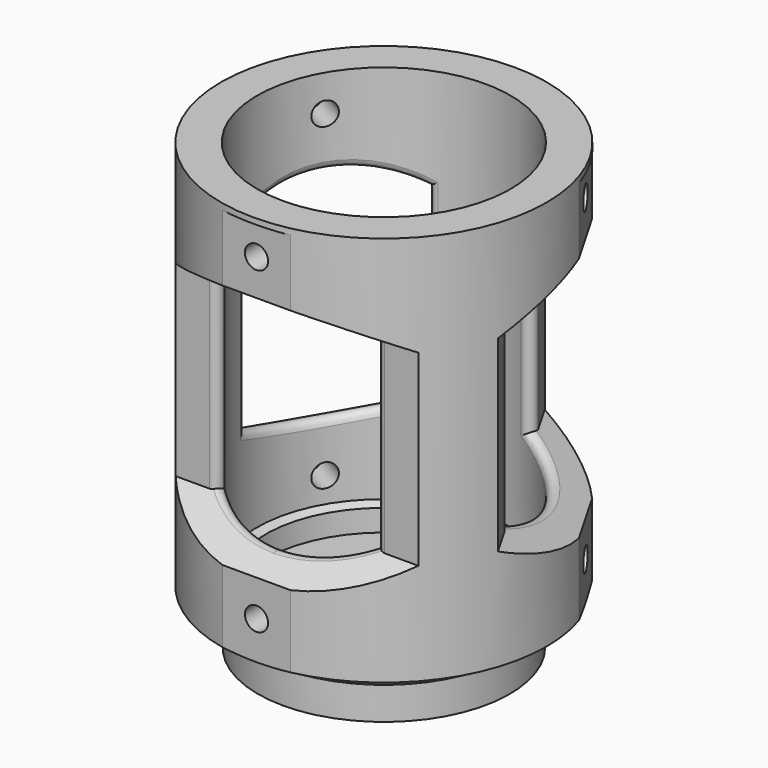
from build123d import *

# Parameters (mm, degrees)
F2_R      = 2
F2_R_2    = 9.75
F3_DEPTH  = 61.4454863729
F5_DEPTH  = 30
F6_COUNT  = 3
F6_ANGLE  = 240
F8_R      = 1.6
F9_DEPTH  = 5
F10_COUNT = 3
F10_ANGLE = 240
F12_R     = 1


with BuildPart() as f1:
    # F0 (on Right) → F1 (revolve)
    with BuildSketch(Plane.YZ):
        Polygon((0, -5.5), (0, 0), (-16.3, 0), (-16.3, 3), (-17.5, 3.4367642811), (-17.5, 55.9444863729), (-22.5, 55.9444863729), (-22.5, 1.9444863729), (-17.4, -1), (-17.4, -5.5), align=None)
    revolve(axis=Axis((0, 0, 23.295013234), (0, 0, 1)))

    # F2 (on face) → F3 (cut, through all)
    with BuildSketch(Plane(origin=(0, 0, -5.5), x_dir=(1, 0, 0), z_dir=(0, 0, -1))):
        with Locations((0, 13)):
            Circle(F2_R)
        with Locations((13, 0)):
            Circle(F2_R)
        with Locations((-13, 0)):
            Circle(F2_R)
        with Locations((0, -13)):
            Circle(F2_R)
        Circle(F2_R_2)
    extrude(amount=-F3_DEPTH, mode=Mode.SUBTRACT)


with BuildPart() as f5:
    # F4 (on Right) → F5 (new body, symmetric)
    with BuildSketch(Plane.YZ):
        Polygon((-22, 45.9444863729), (-22, 55.1072942502), (-41.5050600767, 57.5954504311), (-41.5050600767, -1.058294549), (-22, -3.0555136271), (-22, 11.9444863729), (-15, 15.9859382572), (-15, 41.9030344885), align=None)
    extrude(amount=F5_DEPTH, both=True)


with BuildPart() as f6_1:
    # F6: instance of F5
    add(f5.part.rotate(Axis((0, 0, 3.4367642811), (0, 0, 1)), 1 * F6_ANGLE / (F6_COUNT - 1)))


with BuildPart() as f6_2:
    # F6: instance of F5
    add(f5.part.rotate(Axis((0, 0, 3.4367642811), (0, 0, 1)), 2 * F6_ANGLE / (F6_COUNT - 1)))


with BuildPart() as f1_1:
    add(f1.part)

    # F7: cut F6_1, F5, F6_2
    add(f6_1.part, mode=Mode.SUBTRACT)
    add(f5.part, mode=Mode.SUBTRACT)
    add(f6_2.part, mode=Mode.SUBTRACT)


with BuildPart() as f9:
    # F8 (on face) → F9 (new body, symmetric)
    with BuildSketch(Plane.XZ.offset(22)):
        with Locations((0, 50.9444863729)):
            Circle(F8_R)
    extrude(amount=F9_DEPTH, both=True)


with BuildPart() as f9b:
    # F8 (on face) → F9, piece 2 (new body, symmetric)
    with BuildSketch(Plane.XZ.offset(22)):
        with Locations((0, 6.9444863729)):
            Circle(F8_R)
    extrude(amount=F9_DEPTH, both=True)


with BuildPart() as f10_1:
    # F10: instance of F9
    add(f9.part.rotate(Axis((0, 0, 3.4367642811), (0, 0, 1)), 1 * F10_ANGLE / (F10_COUNT - 1)))


with BuildPart() as f10_2:
    # F10: instance of F9
    add(f9.part.rotate(Axis((0, 0, 3.4367642811), (0, 0, 1)), 2 * F10_ANGLE / (F10_COUNT - 1)))


with BuildPart() as f10_3:
    # F10: instance of F9b
    add(f9b.part.rotate(Axis((0, 0, 3.4367642811), (0, 0, 1)), 1 * F10_ANGLE / (F10_COUNT - 1)))


with BuildPart() as f10_4:
    # F10: instance of F9b
    add(f9b.part.rotate(Axis((0, 0, 3.4367642811), (0, 0, 1)), 2 * F10_ANGLE / (F10_COUNT - 1)))


with BuildPart() as f1_2:
    add(f1_1.part)

    # F11: cut F9, F9b, F10_1, F10_3, F10_2, F10_4
    add(f9.part, mode=Mode.SUBTRACT)
    add(f9b.part, mode=Mode.SUBTRACT)
    add(f10_1.part, mode=Mode.SUBTRACT)
    add(f10_3.part, mode=Mode.SUBTRACT)
    add(f10_2.part, mode=Mode.SUBTRACT)
    add(f10_4.part, mode=Mode.SUBTRACT)

    # F12
    f12_edges = [f1_2.edges().sort_by_distance(p)[0] for p in [
        (-8.483442, 15.306247, 28.944486),
        (-17.49732, -0.306247, 28.944486),
        (-15.155445, 8.75, 43.34641),
        (-15.155445, 8.75, 14.542563),
        (4.727301, -16.84941, 14.918181),
        (-4.727301, -16.84941, 14.918181),
        (9.013878, -15, 28.944486),
        (-9.013878, -15, 28.944486),
        (4.727301, -16.84941, 42.970792),
        (-4.727301, -16.84941, 42.970792),
        (17.49732, -0.306247, 28.944486),
        (8.483442, 15.306247, 28.944486),
        (15.155445, 8.75, 43.34641),
        (15.155445, 8.75, 14.542563),
    ]]
    fillet(f12_edges, radius=F12_R)


solid = f1_2.part
